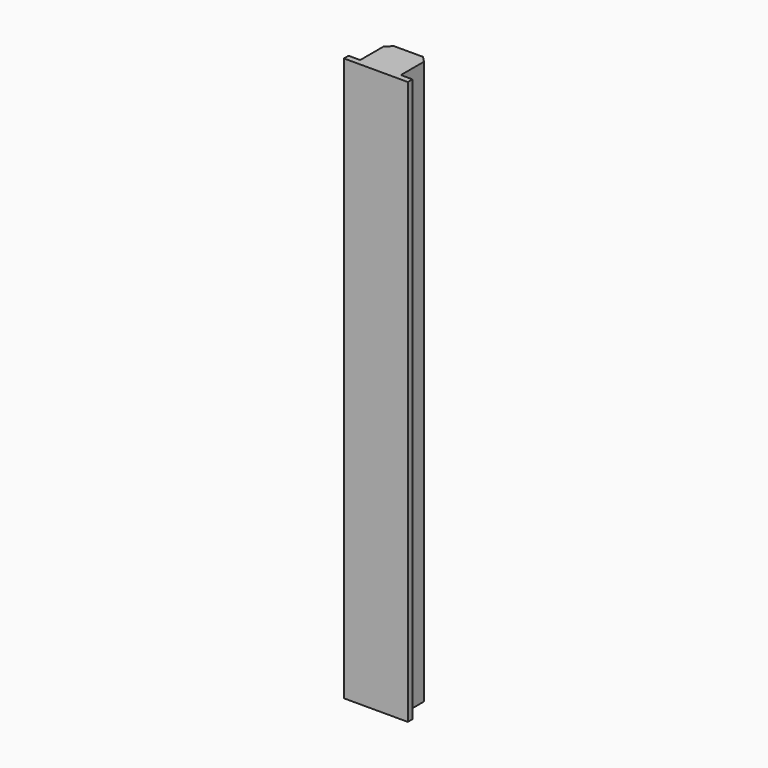
from build123d import *

# Parameters (mm, degrees)
F0_W     = 2
F0_H     = 1
F0_R     = 2.5
F1_DEPTH = 95
F3_DEPTH = 2
F5_SIZE  = 1
F6_SIZE  = 1
F7_W     = 2.4
F7_H     = 25
F8_DEPTH = 1.3078288801


with BuildPart() as f1:
    # F0 (on Top) → F1 (new body)
    with BuildSketch(Plane.XY):
        with Locations((-18.385866493, -45.4366366267)):
            Rectangle(F0_W, F0_H)
        Polygon((-10.385866493, -38.9366366267), (-17.385866493, -38.9366366267), (-17.385866493, -44.9366366267), (-17.385866493, -45.9366366267), (-10.385866493, -45.9366366267), (-10.385866493, -44.9366366267), align=None)
        with Locations((-13.885866493, -42.4366366267)):
            Circle(F0_R, mode=Mode.SUBTRACT)
        with Locations((-9.385866493, -45.4366366267)):
            Rectangle(F0_W, F0_H)
    extrude(amount=F1_DEPTH)


with BuildPart() as f3:
    # F2 (on face) → F3 (new body)
    with BuildSketch(Plane.XY.offset(95)):
        Polygon((-19.385866493, -44.9366366267), (-19.385866493, -45.9366366267), (-8.385866493, -45.9366366267), (-8.385866493, -44.9366366267), (-10.385866493, -44.9366366267), (-10.385866493, -38.9366366267), (-17.385866493, -38.9366366267), (-17.385866493, -44.9366366267), align=None)
    extrude(amount=F3_DEPTH)


with BuildPart() as f1_1:
    add(f1.part)

    # F4: union F3
    add(f3.part)

    # F5
    f5_edges = [f1_1.edges().sort_by_distance(p)[0] for p in [
        (-10.385866, -38.936637, 48.5),
    ]]
    chamfer(f5_edges, length=F5_SIZE)

    # F6
    f6_edges = [f1_1.edges().sort_by_distance(p)[0] for p in [
        (-17.385866, -38.936637, 48.5),
    ]]
    chamfer(f6_edges, length=F6_SIZE)

    # F7 (on face) → F8 (cut, through all)
    with BuildSketch(Plane(origin=(0, -38.9366366267, 0), x_dir=(-1, 0, 0), z_dir=(0, 1, 0))):
        with Locations((13.885866493, 12.5)):
            Rectangle(F7_W, F7_H)
        with BuildLine():
            ThreePointArc((15.085866493, 25), (13.885866493, 26.2), (12.685866493, 25))
            Line((12.685866493, 25), (15.085866493, 25))
        make_face()
    extrude(amount=-F8_DEPTH, mode=Mode.SUBTRACT)


solid = f1_1.part
